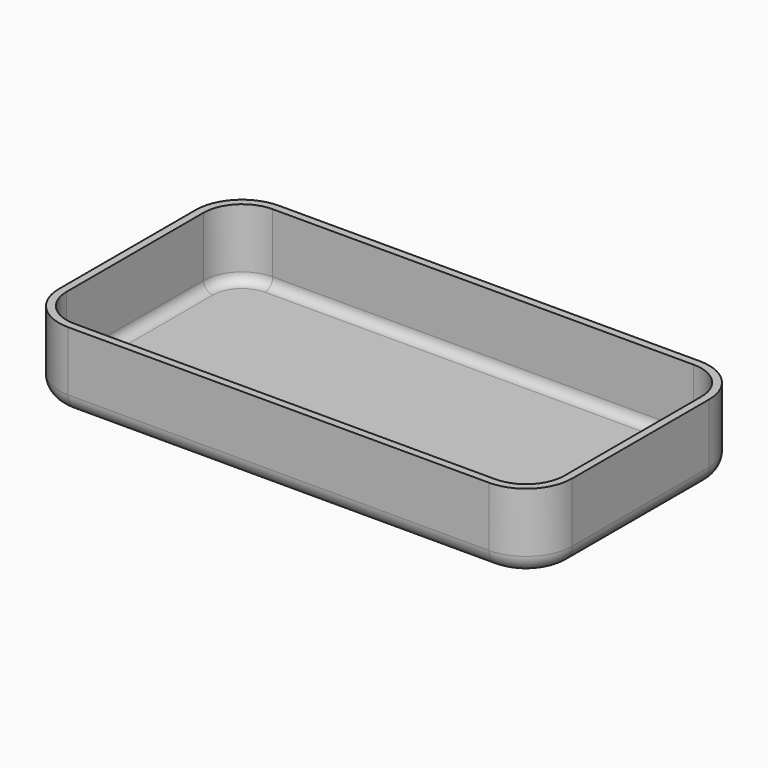
from build123d import *

# Parameters (mm, degrees)
F0_W     = 53.4
F0_H     = 27.4
F0_W_2   = 51.8
F0_H_2   = 25.8
F1_DEPTH = 0.8
F2_DEPTH = 8
F3_R     = 4
F4_R     = 4.8
F5_R     = 1
F6_R     = 1.8


with BuildPart() as f1:
    # F0 (on Top) → F1 (new body)
    with BuildSketch(Plane.XY):
        Rectangle(F0_W, F0_H)
        Rectangle(F0_W_2, F0_H_2, mode=Mode.SUBTRACT)
        Rectangle(F0_W_2, F0_H_2)
    extrude(amount=F1_DEPTH)

    # F0 (on Top) → F2 (join)
    with BuildSketch(Plane.XY):
        Rectangle(F0_W, F0_H)
        Rectangle(F0_W_2, F0_H_2, mode=Mode.SUBTRACT)
    extrude(amount=F2_DEPTH)

    # F3
    f3_edges = [f1.edges().sort_by_distance(p)[0] for p in [
        (-25.9, 12.9, 4.4),
        (25.9, 12.9, 4.4),
        (25.9, -12.9, 4.4),
        (-25.9, -12.9, 4.4),
    ]]
    fillet(f3_edges, radius=F3_R)

    # F4
    f4_edges = [f1.edges().sort_by_distance(p)[0] for p in [
        (26.7, 13.7, 4),
        (26.7, -13.7, 4),
        (-26.7, 13.7, 4),
        (-26.7, -13.7, 4),
    ]]
    fillet(f4_edges, radius=F4_R)

    # F5
    f5_edges = [f1.edges().sort_by_distance(p)[0] for p in [
        (0, 12.9, 0.8),
    ]]
    fillet(f5_edges, radius=F5_R)

    # F6
    f6_edges = [f1.edges().sort_by_distance(p)[0] for p in [
        (0, 13.7, 0),
    ]]
    fillet(f6_edges, radius=F6_R)


solid = f1.part
